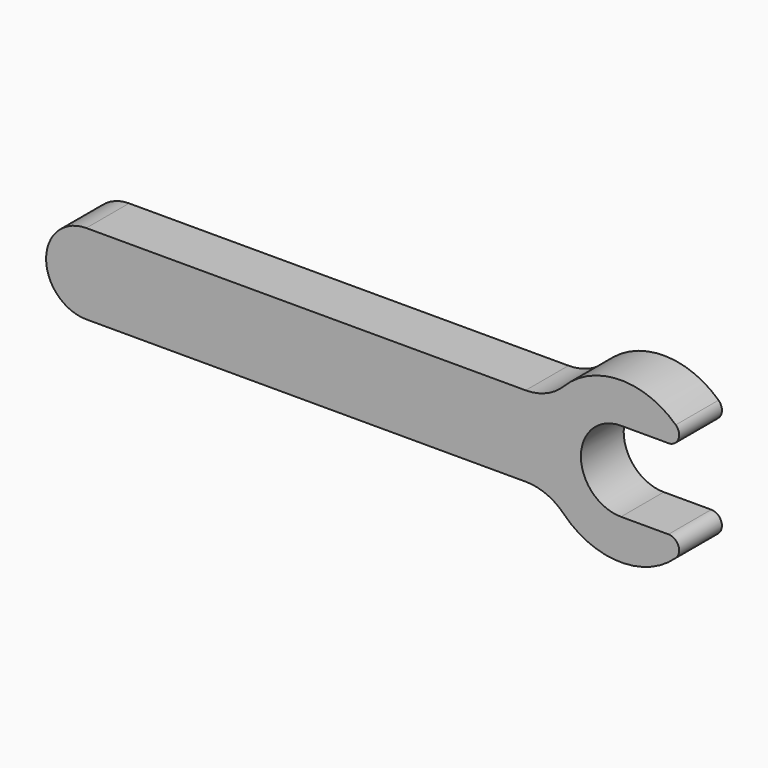
from build123d import *

# Parameters (mm, degrees)
F1_DEPTH = 6.35


with BuildPart() as f1:
    # F0 (on Front) → F1 (new body)
    with BuildSketch(Plane.XZ):
        with BuildLine():
            Line((52.175445, 0), (0, 0))
            ThreePointArc((0, 0), (-4.7752, -4.7752), (0, -9.5504))
            Line((0, -9.5504), (52.175445, -9.5504))
            ThreePointArc((52.175445, -9.5504), (54.631508, -10.044612), (56.705267, -11.45032))
            ThreePointArc((56.705267, -11.45032), (63.295562, -14.298006), (70.001999, -11.735777))
            ThreePointArc((70.001999, -11.735777), (70.316497, -10.341737), (69.135066, -9.5377))
            Line((69.135066, -9.5377), (63.5, -9.5377))
            ThreePointArc((63.5, -9.5377), (58.7375, -4.7752), (63.5, -0.0127))
            Line((63.5, -0.0127), (69.135066, -0.0127))
            ThreePointArc((69.135066, -0.0127), (70.316497, 0.791337), (70.001999, 2.185377))
            ThreePointArc((70.001999, 2.185377), (63.295562, 4.747606), (56.705267, 1.89992))
            ThreePointArc((56.705267, 1.89992), (54.631508, 0.494212), (52.175445, 0))
        make_face()
    extrude(amount=F1_DEPTH)


solid = f1.part
